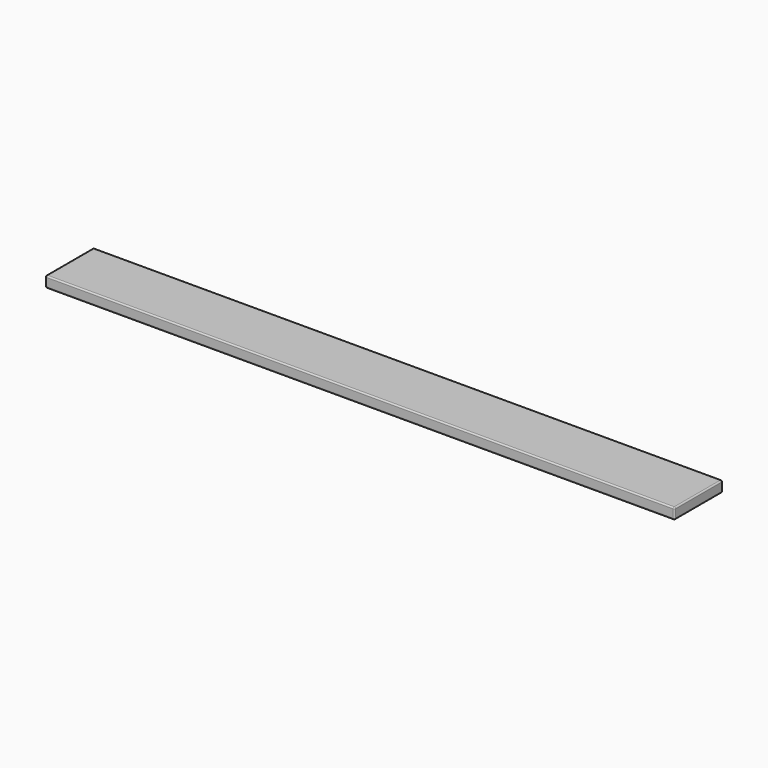
from build123d import *

# Parameters (mm, degrees)
F1_DEPTH = 2300
F2_R     = 5
F3_R     = 5


with BuildPart() as f1:
    # F0 (on Right) → F1 (new body)
    with BuildSketch(Plane.YZ):
        with BuildLine():
            ThreePointArc((0, 5), (1.4644660941, 1.4644660941), (5, 0))
            Line((5, 0), (215, 0))
            ThreePointArc((215, 0), (218.5355339059, 1.4644660941), (220, 5))
            Line((220, 5), (220, 35))
            ThreePointArc((220, 35), (218.5355339059, 38.5355339059), (215, 40))
            Line((215, 40), (5, 40))
            ThreePointArc((5, 40), (1.4644660941, 38.5355339059), (0, 35))
            Line((0, 35), (0, 5))
        make_face()
    extrude(amount=-F1_DEPTH)

    # F2
    f2_edges = [f1.edges().sort_by_distance(p)[0] for p in [
        (0, 110, 40),
    ]]
    fillet(f2_edges, radius=F2_R)

    # F3
    f3_edges = [f1.edges().sort_by_distance(p)[0] for p in [
        (-2300, 0, 20),
        (-2300, 1.464466, 1.464466),
        (-2300, 110, 0),
        (-2300, 218.535534, 1.464466),
        (-2300, 220, 20),
        (-2300, 218.535534, 38.535534),
        (-2300, 110, 40),
        (-2300, 1.464466, 38.535534),
    ]]
    fillet(f3_edges, radius=F3_R)


solid = f1.part
